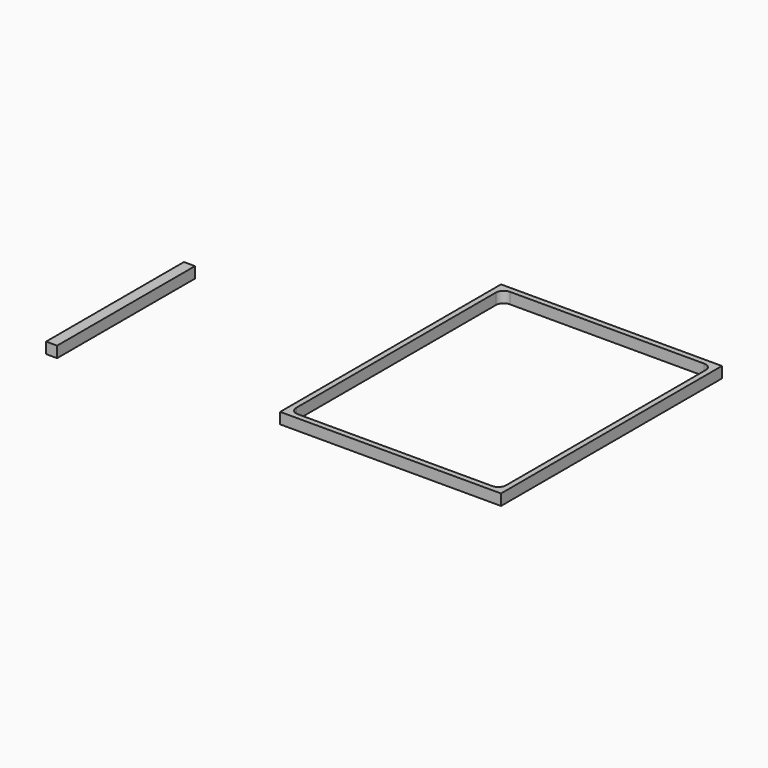
from build123d import *

# Parameters (mm, degrees)
F0_W     = 100
F0_H     = 125
F1_DEPTH = 5
F0_W_2   = 5
F0_H_2   = 78


with BuildPart() as f1:
    # F0 (on Top) → F1 (new body)
    with BuildSketch(Plane.XY):
        with Locations((2.7321317747, -5.829744041)):
            Rectangle(F0_W, F0_H)
        with BuildLine():
            ThreePointArc((-44.7678682253, 50.670255959), (-43.7427419594, 53.1451296932), (-41.2678682253, 54.170255959))
            Line((-41.2678682253, 54.170255959), (46.7321317747, 54.170255959))
            ThreePointArc((46.7321317747, 54.170255959), (49.2070055089, 53.1451296932), (50.2321317747, 50.670255959))
            Line((50.2321317747, 50.670255959), (50.2321317747, -62.329744041))
            ThreePointArc((50.2321317747, -62.329744041), (49.2070055089, -64.8046177751), (46.7321317747, -65.829744041))
            Line((46.7321317747, -65.829744041), (-41.2678682253, -65.829744041))
            ThreePointArc((-41.2678682253, -65.829744041), (-43.7427419594, -64.8046177751), (-44.7678682253, -62.329744041))
            Line((-44.7678682253, -62.329744041), (-44.7678682253, 50.670255959))
        make_face(mode=Mode.SUBTRACT)
    extrude(amount=F1_DEPTH)


with BuildPart() as f1b:
    # F0 (on Top) → F1, piece 2 (new body)
    with BuildSketch(Plane.XY):
        with Locations((-142.9834938049, -39)):
            Rectangle(F0_W_2, F0_H_2)
    extrude(amount=F1_DEPTH)


solid = Compound([f1.part, f1b.part])
